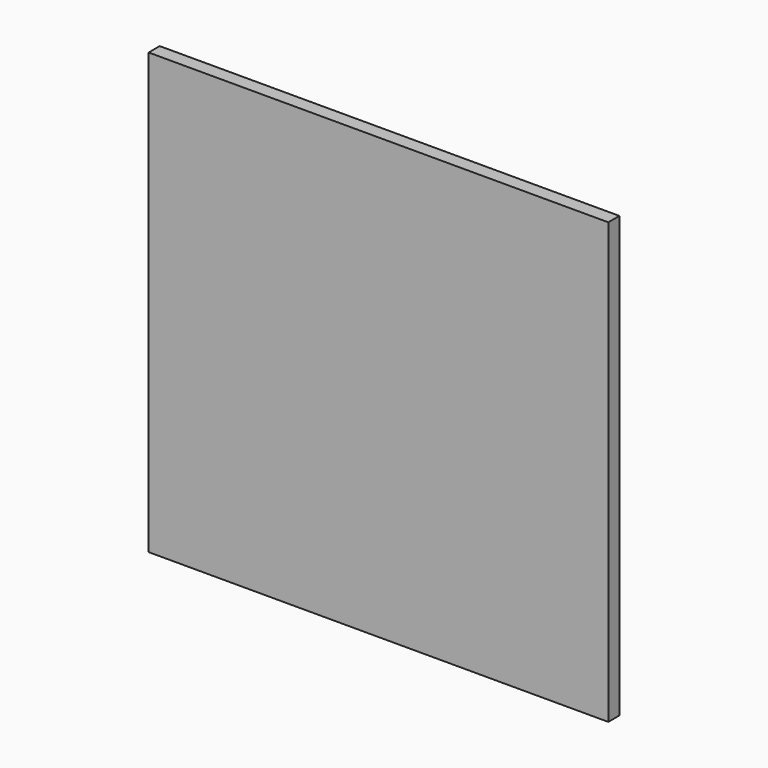
from build123d import *

# Parameters (mm, degrees)
F0_W     = 2946.4
F0_H     = 2819.4
F1_DEPTH = 12.7
F2_W     = 38.1
F2_H     = 2743.2
F2_H_2   = 685.8
F3_DEPTH = 76.2


with BuildPart() as f1:
    # F0 (on Front) → F1 (new body)
    with BuildSketch(Plane.XZ):
        Rectangle(F0_W, F0_H)
    extrude(amount=F1_DEPTH)

    # F2 (on face) → F3 (join)
    with BuildSketch(Plane(origin=(0, 0, 0), x_dir=(-1, 0, 0), z_dir=(0, 1, 0))):
        Polygon((-1047.75, 1371.6), (-1079.5, 1371.6), (-1079.5, -1371.6), (-1041.4, -1371.6), (-1041.4, 1371.6), align=None)
        with Locations((1454.15, 0)):
            Rectangle(F2_W, F2_H)
        Polygon((-1435.1, 1371.6), (-1473.2, 1371.6), (-1473.2, 762), (-1473.2, 723.9), (-1473.2, -1371.6), (-1435.1, -1371.6), align=None)
        Polygon((1473.2, -1409.7), (1473.2, -1371.6), (1435.1, -1371.6), (1079.5, -1371.6), (1041.4, -1371.6), (609.6, -1371.6), (571.5, -1371.6), (-571.5, -1371.6), (-609.6, -1371.6), (-635, -1371.6), (-635, -1409.7), align=None)
        Polygon((-1079.5, -1371.6), (-1435.1, -1371.6), (-1473.2, -1371.6), (-1473.2, -1409.7), (-635, -1409.7), (-635, -1371.6), (-673.1, -1371.6), (-1041.4, -1371.6), align=None)
        Polygon((1473.2, 1409.7), (-1473.2, 1409.7), (-1473.2, 1371.6), (-1435.1, 1371.6), (-1085.85, 1371.6), (-1079.5, 1371.6), (-1047.75, 1371.6), (-1041.4, 1371.6), (-673.1, 1371.6), (-635, 1371.6), (-609.6, 1371.6), (-571.5, 1371.6), (-6.35, 1371.6), (31.75, 1371.6), (571.5, 1371.6), (609.6, 1371.6), (1041.4, 1371.6), (1079.5, 1371.6), (1435.1, 1371.6), (1473.2, 1371.6), align=None)
        with Locations((1060.45, 0)):
            Rectangle(F2_W, F2_H)
        Polygon((-609.6, 1371.6), (-609.6, -1371.6), (-571.5, -1371.6), (-571.5, 647.7), (-571.5, 685.8), (-571.5, 1371.6), align=None)
        Polygon((571.5, 647.7), (571.5, 685.8), (31.75, 685.8), (-6.35, 685.8), (-571.5, 685.8), (-571.5, 647.7), align=None)
        with Locations((12.7, 1028.7)):
            Rectangle(F2_W, F2_H_2)
        Polygon((609.6, -1371.6), (609.6, 1371.6), (571.5, 1371.6), (571.5, 685.8), (571.5, 647.7), (571.5, -1371.6), align=None)
    extrude(amount=F3_DEPTH)


solid = f1.part
